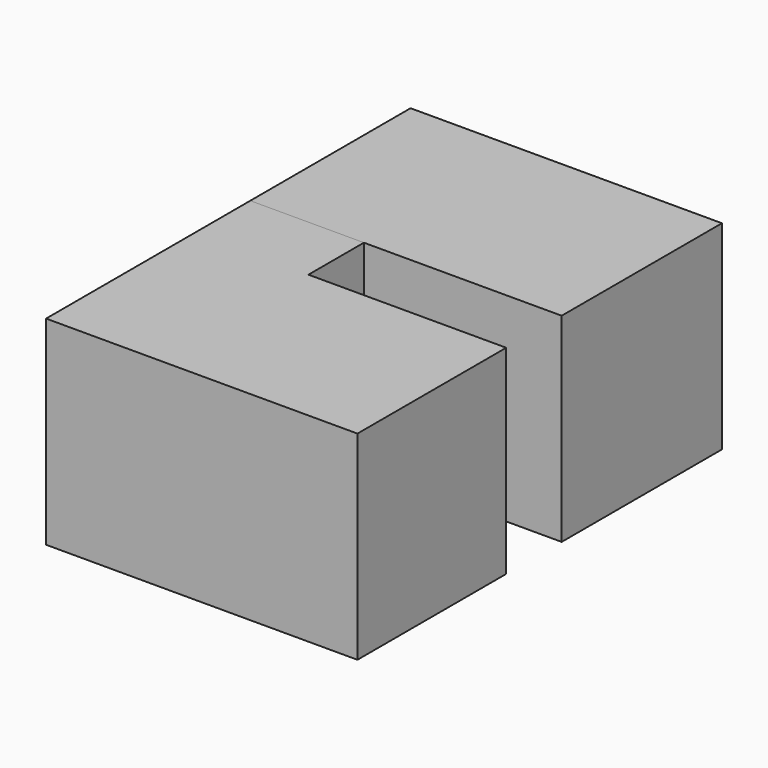
from build123d import *

# Parameters (mm, degrees)
F0_W     = 50.762411
F0_H     = 65.316409
F0_W_2   = 50.762412
F1_DEPTH = 64.930597
F3_W     = 101.524823
F3_H     = 64.930597
F4_DEPTH = 60.626345
F5_W     = 37.042834
F5_H     = 64.930597
F6_DEPTH = 22.602622


with BuildPart() as f1:
    # F0 (on Top) → F1 (new body)
    with BuildSketch(Plane.XY):
        with Locations((-11.661628, 4.460826)):
            Rectangle(F0_W, F0_H)
        with Locations((39.100783, 4.460826)):
            Rectangle(F0_W_2, F0_H)
    extrude(amount=F1_DEPTH)


with BuildPart() as f4:
    # F3 (on offset) → F4 (new body)
    with BuildSketch(Plane.XZ.offset(50.8)):
        with Locations((13.719577, 32.465298)):
            Rectangle(F3_W, F3_H)
    extrude(amount=F4_DEPTH)


with BuildPart() as f6:
    # F5 (on face) → F6 (new body, through all)
    with BuildSketch(Plane.XZ.offset(28.197378)):
        with Locations((-18.521417, 32.465298)):
            Rectangle(F5_W, F5_H)
    extrude(amount=F6_DEPTH)


with BuildPart() as f1_1:
    add(f1.part)

    # F7: union F4, F6
    add(f4.part)
    add(f6.part)


solid = f1_1.part
